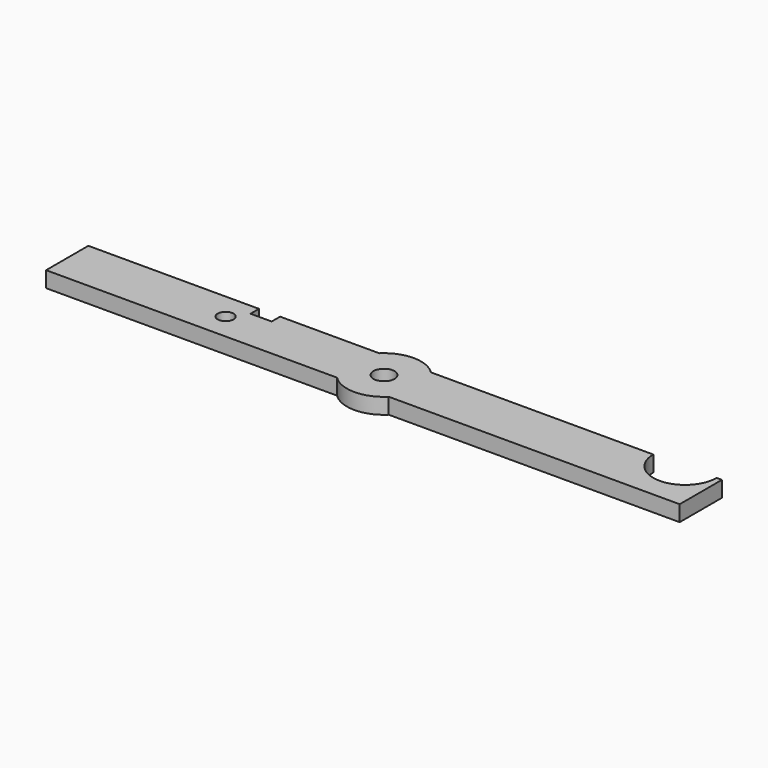
from build123d import *

# Parameters (mm, degrees)
F0_R     = 1.5
F0_R_2   = 2
F1_DEPTH = 3


with BuildPart() as f1:
    # F0 (on Top) → F1 (new body)
    with BuildSketch(Plane.XY):
        with BuildLine():
            Line((-27.6772044599, 5), (-60, 5))
            Line((-60, 5), (-60, -5))
            Line((-60, -5), (-4.8989794856, -5))
            ThreePointArc((-4.8989794856, -5), (-7, 0), (-4.8989794856, 5))
            Line((-4.8989794856, 5), (-23.6772044599, 5))
            Line((-23.6772044599, 5), (-23.6772044599, 3))
            Line((-23.6772044599, 3), (-27.6772044599, 3))
            Line((-27.6772044599, 3), (-27.6772044599, 5))
        make_face()
        with Locations((-30, 0)):
            Circle(F0_R, mode=Mode.SUBTRACT)
        with BuildLine():
            ThreePointArc((7, 0), (6.4534043883, -2.7117470016), (4.8989794856, -5))
            Line((4.8989794856, -5), (60, -5))
            Line((60, -5), (60, 5))
            Line((60, 5), (59, 5))
            ThreePointArc((59, 5), (53, -1), (47, 5))
            Line((47, 5), (4.8989794856, 5))
            ThreePointArc((4.8989794856, 5), (6.4534043883, 2.7117470016), (7, 0))
        make_face()
        with BuildLine():
            ThreePointArc((-4.8989794856, 5), (-7, 0), (-4.8989794856, -5))
            Line((-4.8989794856, -5), (4.8989794856, -5))
            ThreePointArc((4.8989794856, -5), (6.4534043883, -2.7117470016), (7, 0))
            ThreePointArc((7, 0), (6.4534043883, 2.7117470016), (4.8989794856, 5))
            Line((4.8989794856, 5), (-4.8989794856, 5))
        make_face()
        Circle(F0_R_2, mode=Mode.SUBTRACT)
        with BuildLine():
            Line((4.8989794856, -5), (-4.8989794856, -5))
            ThreePointArc((-4.8989794856, -5), (0, -7), (4.8989794856, -5))
        make_face()
        with BuildLine():
            ThreePointArc((4.8989794856, 5), (0, 7), (-4.8989794856, 5))
            Line((-4.8989794856, 5), (4.8989794856, 5))
        make_face()
    extrude(amount=F1_DEPTH)


solid = f1.part
